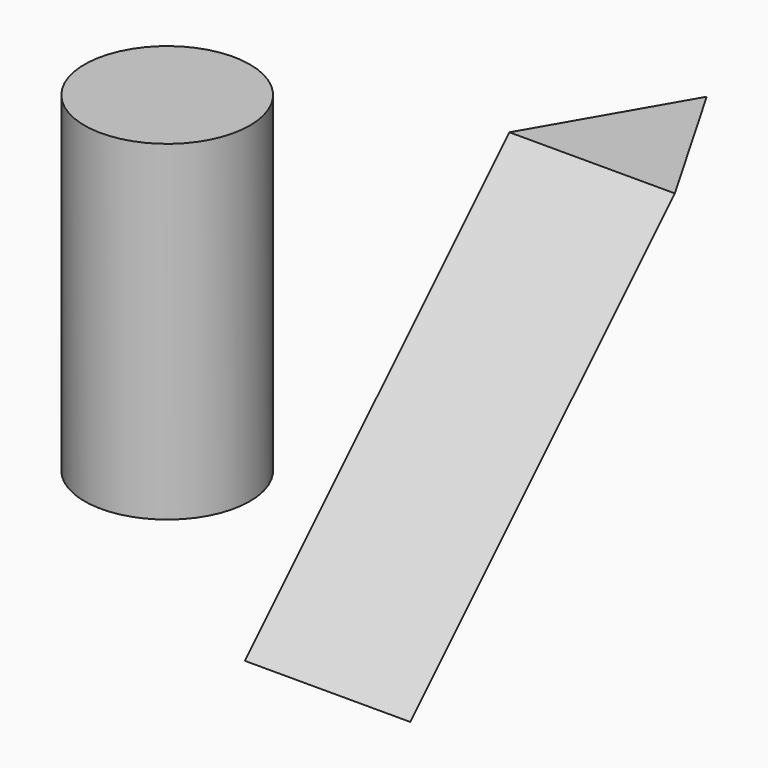
from build123d import *

# Parameters (mm, degrees)
F0_R     = 12.7
F3_DEPTH = 50.8


with BuildPart() as f3:
    # F0 (on Top) → F3 (new body)
    with BuildSketch(Plane.XY):
        with Locations((-25.4, 0)):
            Circle(F0_R)
    extrude(amount=F3_DEPTH)


with BuildPart() as f4:
    # F2 (on offset) → F4 section 0
    with BuildSketch(Plane.XY.offset(50.8)):
        Polygon((12.7, 18.067652), (38.1, 18.067652), (25.4, 40.064697), align=None)
    # F0 (on Top) → F4 section 1
    with BuildSketch(Plane.XY):
        Polygon((12.7, -32.732348), (38.1, -32.732348), (25.4, -10.735303), align=None)
    loft()


solid = Compound([f3.part, f4.part])
